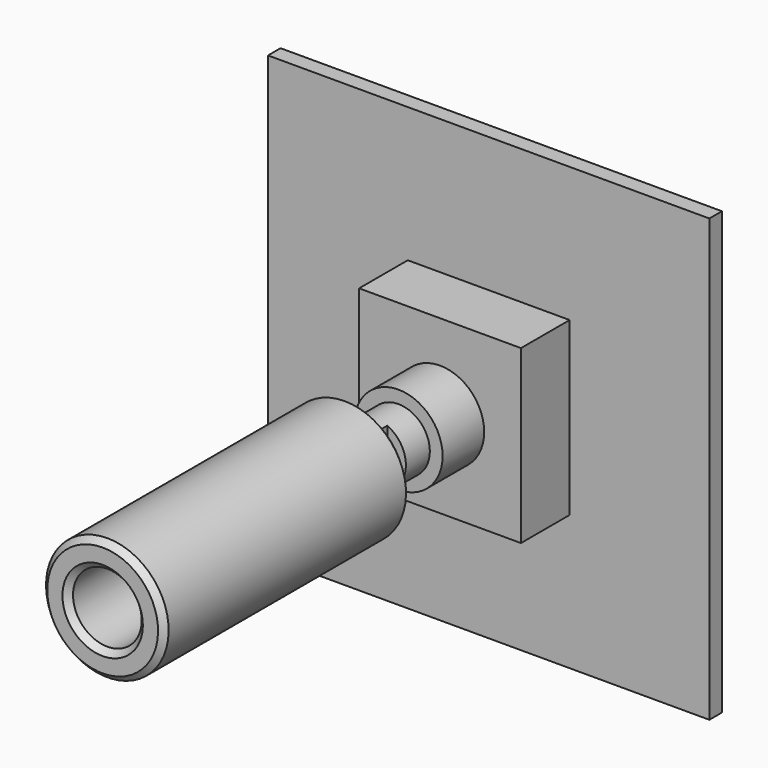
from build123d import *

# Parameters (mm, degrees)
F0_W      = 45
F0_H      = 45
F1_DEPTH  = 1.6
F2_W      = 16.5
F2_H      = 17.5
F3_DEPTH  = 6.2
F4_R      = 4.5
F5_DEPTH  = 5.3
F6_R      = 3.2
F7_DEPTH  = 15.25
F9_DEPTH  = 12.2
F17_DEPTH = 11
F18_SIZE  = 0.6
F19_DEPTH = 25


with BuildPart() as f1:
    # F0 (on Front) → F1 (new body)
    with BuildSketch(Plane.XZ):
        Rectangle(F0_W, F0_H)
    extrude(amount=-F1_DEPTH)

    # F2 (on face) → F3 (join)
    with BuildSketch(Plane.XZ):
        Rectangle(F2_W, F2_H)
    extrude(amount=F3_DEPTH)

    # F4 (on face) → F5 (join)
    with BuildSketch(Plane.XZ.offset(6.2)):
        Circle(F4_R)
    extrude(amount=F5_DEPTH)

    # F6 (on face) → F7 (join)
    with BuildSketch(Plane.XZ.offset(11.5)):
        Circle(F6_R)
    extrude(amount=F7_DEPTH)

    # F8 (on face) → F9 (cut)
    with BuildSketch(Plane.XZ.offset(26.75)):
        with BuildLine():
            Line((1.3, 2.9240383034), (1.3, -2.9240383034))
            ThreePointArc((1.3, -2.9240383034), (3.2, 0), (1.3, 2.9240383034))
        make_face()
    extrude(amount=-F9_DEPTH, mode=Mode.SUBTRACT)

    # F10 (on Top) → F11 (revolve, cut)
    with BuildSketch(Plane.XY):
        Polygon((-2.45, -26.75), (-3.2, -25), (-3.2, -26.75), align=None)
    revolve(axis=Axis((0, -13.375, 0), (0, 1, 0)), mode=Mode.SUBTRACT)


with BuildPart() as f15:
    # F14 (on Right) → F15 (revolve)
    with BuildSketch(Plane.YZ):
        Polygon((-28.75, 3.25), (-17.75, 3.25), (-17.75, 6.25), (-49.2, 6.25), (-49.2, 3.5), (-31.2, 3.5), (-31.2, 0), (-28.75, 0), align=None)
    revolve(axis=Axis((0, -29.975, 0), (0, -1, 0)))

    # F16 (on face) → F17 (join, through all)
    with BuildSketch(Plane(origin=(0, -17.75, 0), x_dir=(-1, 0, 0), z_dir=(0, 1, 0))):
        with BuildLine():
            Line((-1.7, -2.7699277969), (-1.7, 2.7699277969))
            ThreePointArc((-1.7, 2.7699277969), (-3.25, 0), (-1.7, -2.7699277969))
        make_face()
    extrude(amount=-F17_DEPTH)

    # F18
    f18_edges = [f15.edges().sort_by_distance(p)[0] for p in [
        (0, -17.75, -6.25),
        (0, -49.2, -6.25),
        (0, -49.2, -3.5),
        (-3.25, -17.75, 0),
        (1.7, -17.75, 0),
    ]]
    chamfer(f18_edges, length=F18_SIZE)

    # F19 (cut): a face of the model
    f19_faces = [f15.faces().sort_by_distance(p)[0] for p in [
        (-0.5225292511, -28.75, 0),
    ]]
    extrude(f19_faces, amount=-F19_DEPTH, mode=Mode.SUBTRACT)


solid = Compound([f1.part, f15.part])
